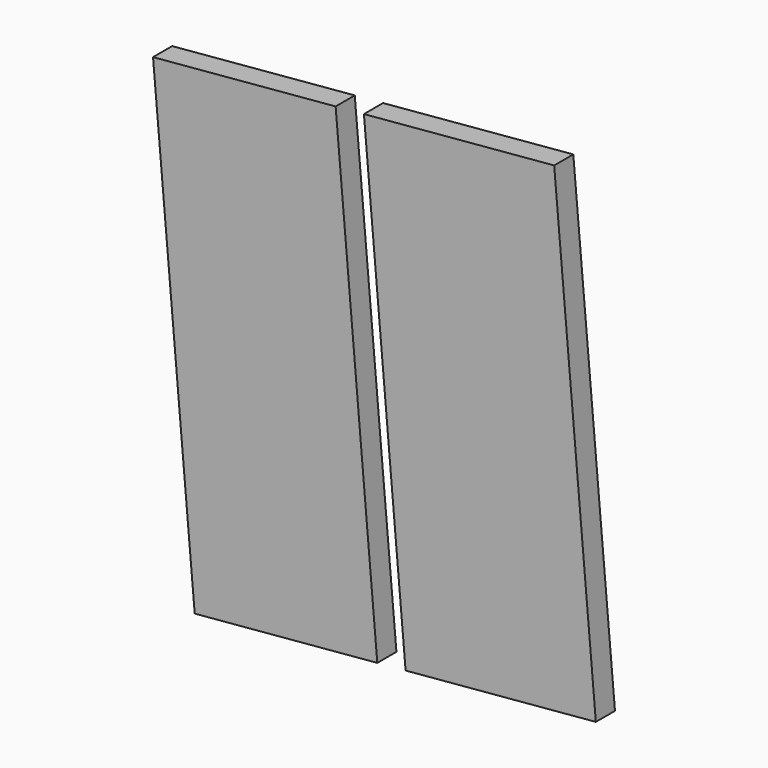
from build123d import *

# Parameters (mm, degrees)
F0_W     = 15.209334494
F0_H     = 2
F0_W_2   = 0.1235939115
F1_DEPTH = 40
F0_W_3   = 1.6235939115
F0_W_4   = 14.3523706026
F2_ANGLE = 5


with BuildPart() as f1:
    # F0 (on Top) → F1 (new body)
    with BuildSketch(Plane.XY):
        with Locations((-9.1081217077, 0)):
            Rectangle(F0_W, F0_H)
        with Locations((-1.441657505, 0)):
            Rectangle(F0_W_2, F0_H)
    extrude(amount=F1_DEPTH)


with BuildPart() as f1b:
    # F0 (on Top) → F1, piece 2 (new body)
    with BuildSketch(Plane.XY):
        with Locations((1.808342495, 0)):
            Rectangle(F0_W_3, F0_H)
        with Locations((9.796324752, 0)):
            Rectangle(F0_W_4, F0_H)
    extrude(amount=F1_DEPTH)


with BuildPart() as f1_1:
    # F2: moved
    add(f1.part.rotate(Axis((16.9725100533, 0, 0), (0, -1, 0)), F2_ANGLE))


with BuildPart() as f1b_1:
    # F2: moved
    add(f1b.part.rotate(Axis((16.9725100533, 0, 0), (0, -1, 0)), F2_ANGLE))


solid = Compound([f1_1.part, f1b_1.part])
